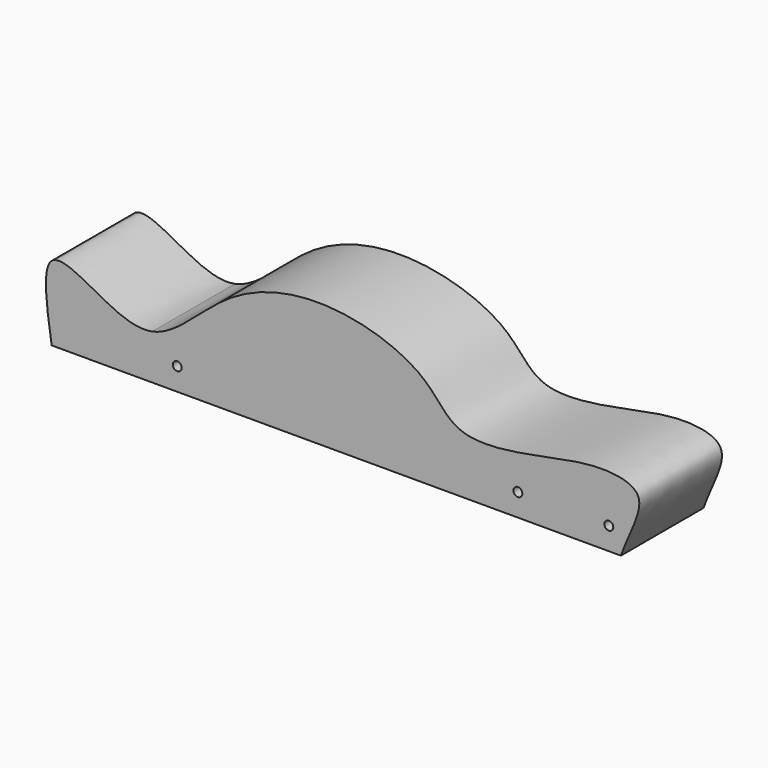
from build123d import *

# Parameters (mm, degrees)
F1_DEPTH = 25
F3_D     = 2.15
F4_R     = 1.075
F5_DEPTH = 25.0010001


with BuildPart() as f1:
    # F0 (on Front) → F1 (new body)
    with BuildSketch(Plane.XZ):
        with BuildLine():
            Line((-67.6292562194, 0), (0, 0))
            Line((0, 0), (70.1037801326, 0))
            add(Edge.make_bspline(
                [(-35.8187206498, 14.9323540671), (-32.3721245175, 17.6670450757), (-22.2804590561, 27.6957336708), (-0.5532035443, 32.4902199692), (23.5358179513, 24.2294862907), (29.7787645974, 10.9587809419), (51.8980669907, 15.0136159709), (65.205743053, 17.913240215), (78.1030507881, 15.097406101), (71.9928192761, 5.4751362852), (70.1037801326, 0)],
                knots=[0.2718233452, 0.2718233452, 0.2718233452, 0.2718233452, 0.3279825198, 0.4313799007, 0.5306522199, 0.6021351082, 0.6932580831, 0.7731682182, 0.8326710129, 0.9104579748, 0.9104579748, 0.9104579748, 0.9104579748], degree=3))
            add(Edge.make_bspline(
                [(-35.8187206498, 14.9323540671), (-35.8040867081, 14.9410882765), (-35.9378695388, 14.8237929522), (-36.1108292553, 14.7023310817)],
                knots=[0.0333037738, 0.0333037738, 0.0333037738, 0.0333037738, 0.165327588, 0.165327588, 0.165327588, 0.165327588], degree=3))
            add(Edge.make_bspline(
                [(-43.2899401356, 10.8699904327), (-40.8750114406, 11.3548434949), (-38.51657576, 12.8226989149), (-36.1108292553, 14.7023310817)],
                knots=[0.2309708757, 0.2309708757, 0.2309708757, 0.2309708757, 0.2702354611, 0.2702354611, 0.2702354611, 0.2702354611], degree=3))
            add(Edge.make_bspline(
                [(-67.6292562194, 0), (-68.8392527492, 7.7181354174), (-70.8763996978, 21.8389822913), (-57.6257413317, 15.6014532234), (-48.3193696397, 9.8602155679), (-43.2899401356, 10.8699904327)],
                knots=[0, 0, 0, 0, 0.0866870461, 0.1491968404, 0.2309708757, 0.2309708757, 0.2309708757, 0.2309708757], degree=3))
        make_face()
    extrude(amount=F1_DEPTH)

    # F3 (through all)
    with Locations(Plane.XZ.offset(25)):
        with Locations((45.1790839434, 5.4526720196), (-37.2473523021, 5.4526720196)):
            Hole(F3_D / 2)

    # F4 (on face) → F5 (cut, through all)
    with BuildSketch(Plane(origin=(0, 0, 0), x_dir=(-1, 0, 0), z_dir=(0, 1, 0))):
        with Locations((-67.1879152943, 5.4526720196)):
            Circle(F4_R)
    extrude(amount=-F5_DEPTH, mode=Mode.SUBTRACT)


solid = f1.part
